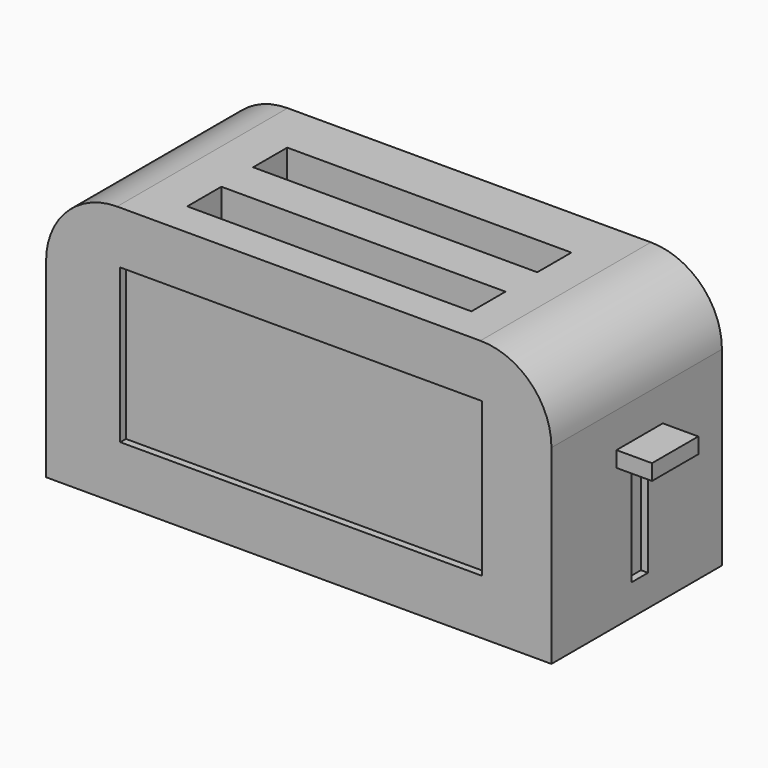
from build123d import *

# Parameters (mm, degrees)
F0_W      = 180.69154
F0_H      = 93.475536
F1_DEPTH  = 76.2
F2_R      = 25.4
F3_W      = 101.6
F3_H      = 15.24
F4_DEPTH  = 76.2
F5_W      = 129.371017
F5_H      = 55.014919
F6_DEPTH  = 2.54
F7_W      = 20.702834
F7_H      = 5.605837
F8_DEPTH  = 12.7
F9_W      = 7.488246
F9_H      = 38.76276
F10_DEPTH = 2.54


with BuildPart() as f1:
    # F0 (on Front) → F1 (new body)
    with BuildSketch(Plane.XZ):
        with Locations((0, -8.763328)):
            Rectangle(F0_W, F0_H)
    extrude(amount=F1_DEPTH)

    # F2
    f2_edges = [f1.edges().sort_by_distance(p)[0] for p in [
        (90.34577, -38.1, 37.97444),
        (-90.34577, -38.1, 37.97444),
    ]]
    fillet(f2_edges, radius=F2_R)

    # F3 (on face) → F4 (cut)
    with BuildSketch(Plane.XY.offset(37.97444)):
        with Locations((1.085338, -56.274154)):
            Rectangle(F3_W, F3_H)
        with Locations((0.680554, -26.320373)):
            Rectangle(F3_W, F3_H)
    extrude(amount=-F4_DEPTH, mode=Mode.SUBTRACT)

    # F5 (on face) → F6 (cut)
    with BuildSketch(Plane.XZ.offset(76.2)):
        with Locations((0.859611, -8.333524)):
            Rectangle(F5_W, F5_H)
    extrude(amount=-F6_DEPTH, mode=Mode.SUBTRACT)

    # F7 (on face) → F8 (join)
    with BuildSketch(Plane.YZ.offset(90.34577)):
        with Locations((-36.778546, -2.802919)):
            Rectangle(F7_W, F7_H)
    extrude(amount=F8_DEPTH)

    # F9 (on face) → F10 (cut)
    with BuildSketch(Plane.YZ.offset(90.34577)):
        with Locations((-36.778546, -24.987215)):
            Rectangle(F9_W, F9_H)
    extrude(amount=-F10_DEPTH, mode=Mode.SUBTRACT)


solid = f1.part
